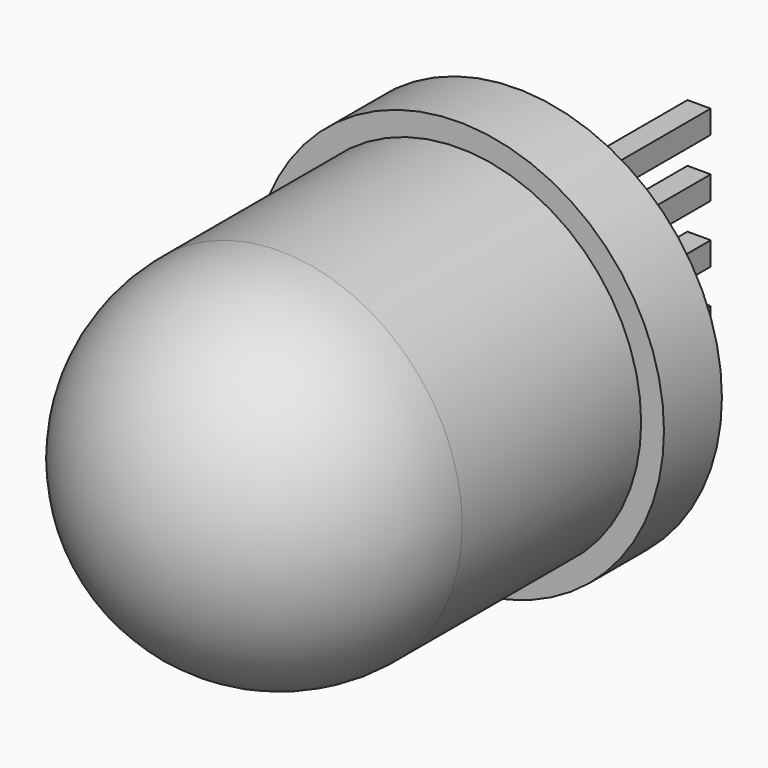
from build123d import *

# Parameters (mm, degrees)
F0_R     = 4.5
F0_R_2   = 4
F1_DEPTH = 1.5875
F2_R     = 4
F3_DEPTH = 8.9
F4_R     = 4
F5_W     = 0.508
F5_H     = 0.508
F5_W_2   = 0.51
F5_H_2   = 0.51
F6_DEPTH = 5


with BuildPart() as f1:
    # F0 (on Front) → F1 (new body)
    with BuildSketch(Plane.XZ):
        Circle(F0_R)
        Circle(F0_R_2, mode=Mode.SUBTRACT)
        Circle(F0_R_2)
    extrude(amount=-F1_DEPTH)

    # F2 (on face) → F3 (join)
    with BuildSketch(Plane.XZ):
        Circle(F2_R)
    extrude(amount=F3_DEPTH)

    # F4
    f4_edges = [f1.edges().sort_by_distance(p)[0] for p in [
        (-4, -8.9, 0),
    ]]
    fillet(f4_edges, radius=F4_R)

    # F5 (on face) → F6 (join)
    with BuildSketch(Plane(origin=(0, 1.5875, 0), x_dir=(-1, 0, 0), z_dir=(0, 1, 0))):
        with Locations((0, 1.905)):
            Rectangle(F5_W, F5_H)
        with Locations((0, 0.635)):
            Rectangle(F5_W_2, F5_H_2)
        with Locations((0, -0.635)):
            Rectangle(F5_W_2, F5_H_2)
        with Locations((0, -1.905)):
            Rectangle(F5_W, F5_H)
    extrude(amount=F6_DEPTH)


solid = f1.part
